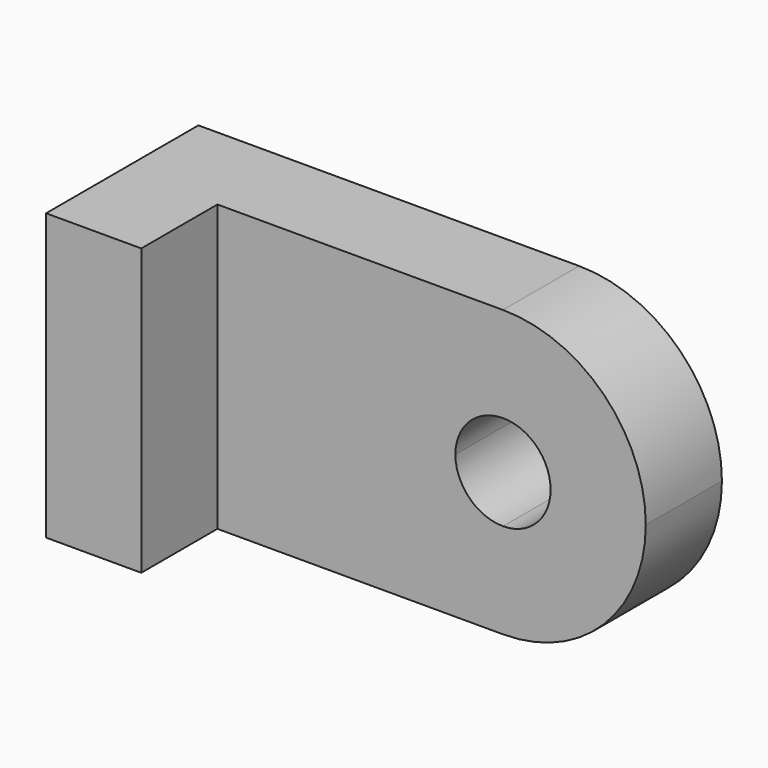
from build123d import *

# Parameters (mm, degrees)
F1_DEPTH = 12.7
F2_W     = 12.7
F2_H     = 19.05
F3_DEPTH = 12.7
F4_W     = 31.75
F4_H     = 12.7
F5_DEPTH = 6.35
F6_R     = 6.35
F7_DEPTH = 25.4
F9_DEPTH = 12.7


with BuildPart() as f1:
    # F0 (on Front) → F1 (new body)
    with BuildSketch(Plane.XZ):
        with BuildLine():
            ThreePointArc((0, -19.05), (-13.4703841816, -13.4703841816), (-19.05, 0))
            Line((-19.05, 0), (-50.8, 0))
            Line((-50.8, 0), (-50.8, -19.05))
            Line((-50.8, -19.05), (0, -19.05))
        make_face()
        with BuildLine():
            ThreePointArc((0, 19.05), (-13.4703841816, 13.4703841816), (-19.05, 0))
            Line((-19.05, 0), (-6.35, 0))
            ThreePointArc((-6.35, 0), (-4.4901280605, 4.4901280605), (0, 6.35))
            Line((0, 6.35), (0, 19.05))
        make_face()
        with BuildLine():
            Line((-50.8, 0), (-19.05, 0))
            ThreePointArc((-19.05, 0), (-13.4703841816, 13.4703841816), (0, 19.05))
            Line((0, 19.05), (-50.8, 19.05))
            Line((-50.8, 19.05), (-50.8, 0))
        make_face()
        with BuildLine():
            Line((-6.35, 0), (-19.05, 0))
            ThreePointArc((-19.05, 0), (-13.4703841816, -13.4703841816), (0, -19.05))
            Line((0, -19.05), (0, -6.35))
            ThreePointArc((0, -6.35), (-4.4901280605, -4.4901280605), (-6.35, 0))
        make_face()
        with BuildLine():
            ThreePointArc((19.05, 0), (13.4703841816, 13.4703841816), (0, 19.05))
            Line((0, 19.05), (0, 6.35))
            ThreePointArc((0, 6.35), (4.4901280605, 4.4901280605), (6.35, 0))
            Line((6.35, 0), (19.05, 0))
        make_face()
        with BuildLine():
            Line((0, -6.35), (0, -19.05))
            ThreePointArc((0, -19.05), (13.4703841816, -13.4703841816), (19.05, 0))
            Line((19.05, 0), (6.35, 0))
            ThreePointArc((6.35, 0), (4.4901280605, -4.4901280605), (0, -6.35))
        make_face()
    extrude(amount=F1_DEPTH)

    # F2 (on face) → F3 (join)
    with BuildSketch(Plane.XZ.offset(12.7)):
        with Locations((-44.45, -9.525)):
            Rectangle(F2_W, F2_H)
        with Locations((-44.45, 9.525)):
            Rectangle(F2_W, F2_H)
    extrude(amount=F3_DEPTH)

    # F4 (on face) → F5 (join)
    with BuildSketch(Plane(origin=(0, 0, 0), x_dir=(-1, 0, 0), z_dir=(0, 1, 0))):
        with Locations((34.925, -12.7)):
            Rectangle(F4_W, F4_H)
    extrude(amount=F5_DEPTH)

    # F6 (on face) → F7 (cut)
    with BuildSketch(Plane.XY.offset(-6.35)):
        with Locations((-19.05, 6.35)):
            Circle(F6_R)
    extrude(amount=-F7_DEPTH, mode=Mode.SUBTRACT)

    # F8 (on face) → F9 (join)
    with BuildSketch(Plane.XY.offset(-6.35)):
        with BuildLine():
            ThreePointArc((-25.4, 6.35), (-38.1, 19.05), (-50.8, 6.35))
            Line((-50.8, 6.35), (-38.1, 6.35))
            Line((-38.1, 6.35), (-25.4, 6.35))
        make_face()
    extrude(amount=-F9_DEPTH)


solid = f1.part
